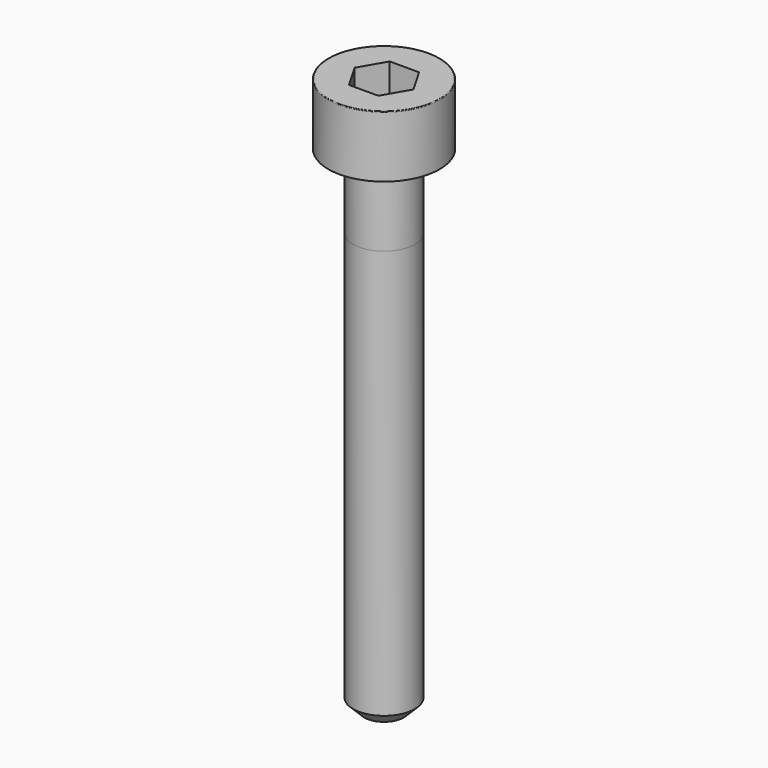
from build123d import *

# Parameters (mm, degrees)
POCKET_DEPTH = 2.06


with BuildPart() as part:
    # Sketch → Revolve (revolve)
    with BuildSketch(Plane.YZ):
        with BuildLine():
            Line((1.249, 0), (2.25, 0))
            Line((2.25, 0), (2.25, 2.47229))
            ThreePointArc((2.25, 2.47229), (2.241884, 2.491884), (2.22229, 2.5))
            Line((2.22229, 2.5), (0, 2.5))
            Line((0, -20), (0, 2.5))
            Line((0.8, -20), (0, -20))
            Line((1.25, -19.55), (0.8, -20))
            Line((1.25, -3), (1.25, -19.55))
            Line((1.249, 0), (1.25, -3))
        make_face()
    revolve(axis=Axis((0, 0, 0), (0, 0, 1)))

    # Sketch001 → Pocket (cut)
    with BuildSketch(Plane.XY.offset(2.5)):
        Polygon((1.189342, 0), (0.594671, 1.03), (-0.594671, 1.03), (-1.189342, 0), (-0.594671, -1.03), (0.594671, -1.03), align=None)
    extrude(amount=-POCKET_DEPTH, mode=Mode.SUBTRACT)


solid = part.part
